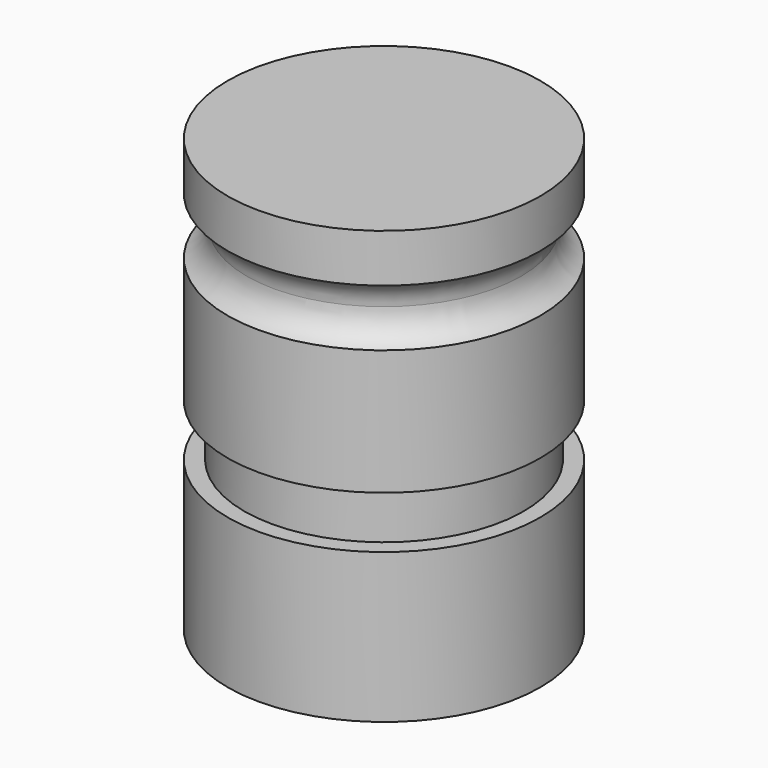
from build123d import *

# Parameters (mm, degrees)
F0_R     = 18.36779
F1_DEPTH = 50.8
F2_R     = 3.616434
F2_W     = 6.643541
F2_H     = 6.132498


with BuildPart() as f1:
    # F0 (on Top) → F1 (new body)
    with BuildSketch(Plane.XY):
        Circle(F0_R)
    extrude(amount=F1_DEPTH)

    # F2 (on Right) → F3 (revolve, cut)
    with BuildSketch(Plane.YZ):
        with Locations((-19.738993, 41.785281)):
            Circle(F2_R)
        with Locations((-19.738992, 20.640921)):
            Rectangle(F2_W, F2_H)
    revolve(axis=Axis((0, 0, 23.766607), (0, 0, 1)), mode=Mode.SUBTRACT)


solid = f1.part
